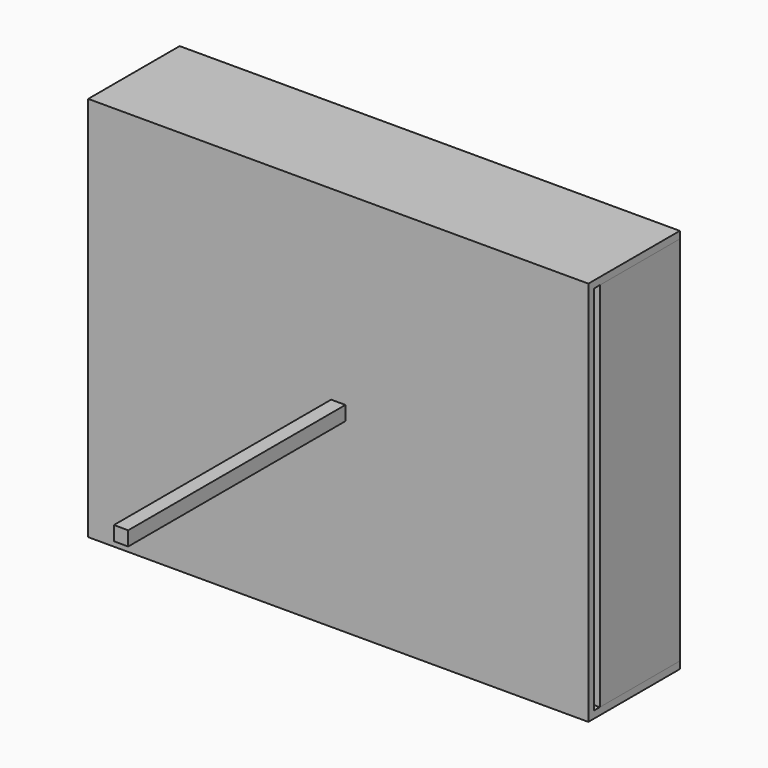
from build123d import *

# Parameters (mm, degrees)
F0_W     = 70
F0_H     = 54
F1_DEPTH = 16
F2_T     = -1
F3_W     = 70
F3_H     = 52
F4_DEPTH = 14
F5_T     = -1
F6_W     = 2
F6_H     = 2
F7_DEPTH = 54


with BuildPart() as f1:
    # F0 (on Front) → F1 (new body)
    with BuildSketch(Plane.XZ):
        Rectangle(F0_W, F0_H)
    extrude(amount=F1_DEPTH)

    # F2
    f2_openings = [f1.faces().sort_by_distance(p)[0] for p in [
        (35, -8, 0),
        (-35, -8, 0),
    ]]
    offset(amount=F2_T, openings=f2_openings)


with BuildPart() as f4:
    # F3 (on Front) → F4 (new body)
    with BuildSketch(Plane.XZ):
        Rectangle(F3_W, F3_H)
    extrude(amount=F4_DEPTH)

    # F5
    f5_openings = [f4.faces().sort_by_distance(p)[0] for p in [
        (0, -14, 0),
    ]]
    offset(amount=F5_T, openings=f5_openings)


with BuildPart() as f7:
    # F6 (on Front) → F7 (new body)
    with BuildSketch(Plane.XZ):
        Rectangle(F6_W, F6_H)
    extrude(amount=F7_DEPTH)


solid = Compound([f1.part, f4.part, f7.part])
